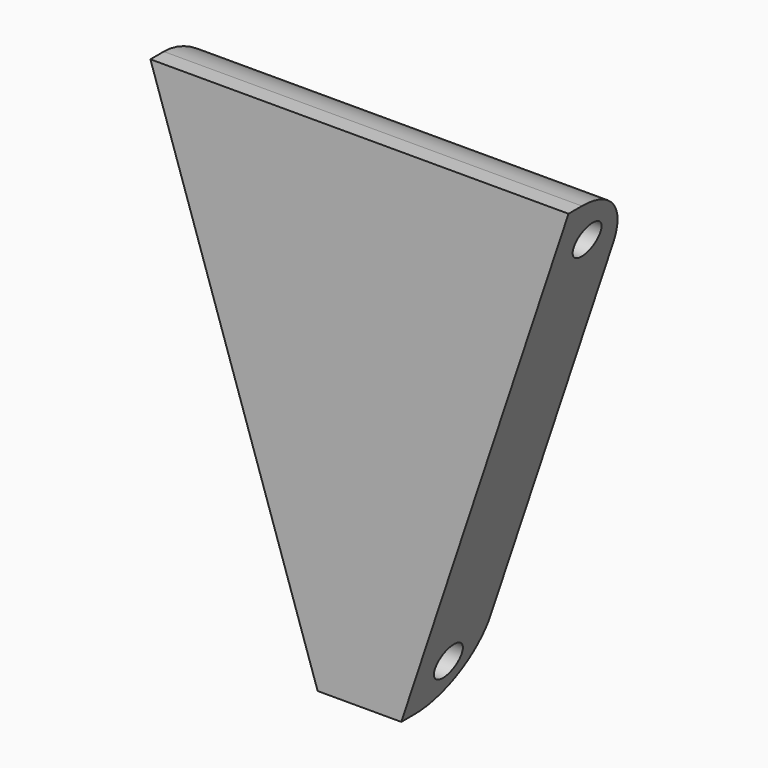
from build123d import *

# Parameters (mm, degrees)
F1_DEPTH = 3.175
F2_R     = 5.08
F3_R     = 1.27
F4_DEPTH = 25.4


with BuildPart() as f1:
    # F0 (on Front) → F1 (new body, symmetric)
    with BuildSketch(Plane.XZ):
        Polygon((15.851528, 17.014947), (-15.898472, 17.014947), (-3.198472, -21.085053), (3.151528, -21.085053), align=None)
    extrude(amount=F1_DEPTH, both=True)

    # F2
    f2_edges = [f1.edges().sort_by_distance(p)[0] for p in [
        (-0.023472, 3.175, 17.014947),
        (-0.023472, 3.175, -21.085053),
    ]]
    fillet(f2_edges, radius=F2_R)

    # F3 (on Right) → F4 (cut, symmetric)
    with BuildSketch(Plane.YZ):
        with Locations((0, 13.631148)):
            Circle(F3_R)
        with Locations((0, -17.971655)):
            Circle(F3_R)
    extrude(amount=F4_DEPTH, both=True, mode=Mode.SUBTRACT)


solid = f1.part
